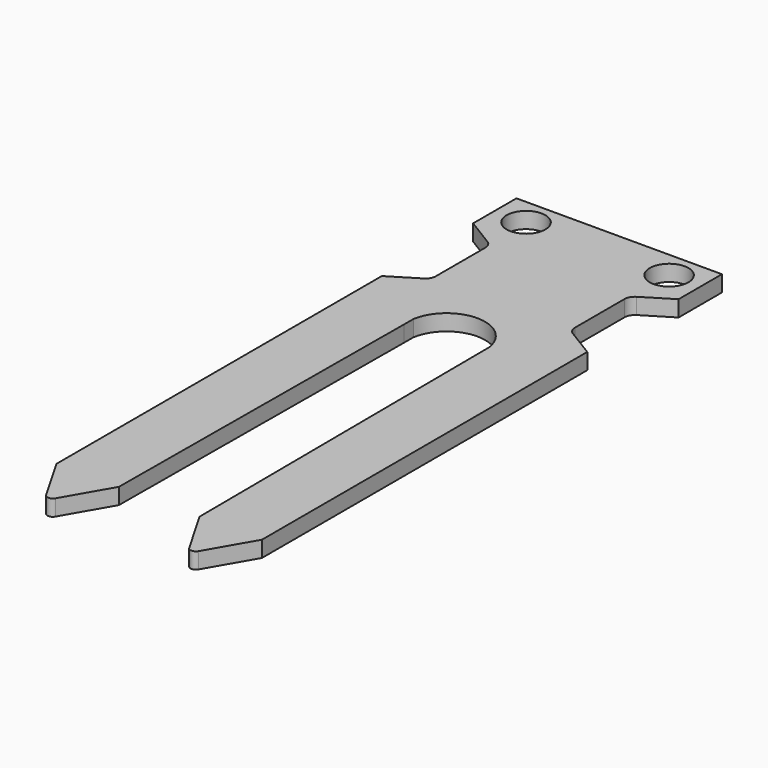
from build123d import *

# Parameters (mm, degrees)
F0_R     = 1.84
F1_DEPTH = 1.53
F2_R     = 1
F3_R     = 0.5


with BuildPart() as f1:
    # F0 (on Top) → F1 (new body)
    with BuildSketch(Plane.XY):
        with BuildLine():
            Line((-9.765, 28.690863), (-9.765, 25.180746))
            Line((-9.765, 25.180746), (-9.765, 23.540863))
            Line((-9.765, 23.540863), (-6.612455, 21.610863))
            Line((-6.612455, 21.610863), (-6.612455, 14.620863))
            Line((-6.612455, 14.620863), (-9.765, 12.690863))
            Line((-9.765, 12.690863), (-9.765, -25.956517))
            Line((-9.765, -25.956517), (-3.835, -25.956517))
            Line((-3.835, -25.956517), (-3.618682, 7.628455))
            ThreePointArc((-3.618682, 7.628455), (-3.659924, 8.200425), (-3.611318, 8.771817))
            ThreePointArc((-3.611318, 8.771817), (0, 11.836852), (3.611318, 8.771817))
            Line((3.611318, 8.771817), (3.835, -25.956517))
            Line((3.835, -25.956517), (9.765, -25.956517))
            Line((9.765, -25.956517), (9.765, 12.690863))
            Line((9.765, 12.690863), (6.612455, 14.620863))
            Line((6.612455, 14.620863), (6.612455, 21.610863))
            Line((6.612455, 21.610863), (9.765, 23.540863))
            Line((9.765, 23.540863), (9.765, 25.180746))
            Line((9.765, 25.180746), (9.765, 28.690863))
            Line((9.765, 28.690863), (-9.765, 28.690863))
        make_face()
        with Locations((-6.8, 26.120863)):
            Circle(F0_R, mode=Mode.SUBTRACT)
        with Locations((6.8, 26.120863)):
            Circle(F0_R, mode=Mode.SUBTRACT)
        Polygon((-3.835, -25.956517), (-9.765, -25.956517), (-6.8, -31.106517), align=None)
        with BuildLine():
            ThreePointArc((-3.611318, 8.771817), (-3.659924, 8.200425), (-3.618682, 7.628455))
            Line((-3.618682, 7.628455), (-3.611318, 8.771817))
        make_face()
        Polygon((6.8, -31.106517), (9.765, -25.956517), (3.835, -25.956517), align=None)
    extrude(amount=F1_DEPTH)

    # F2
    f2_edges = [f1.edges().sort_by_distance(p)[0] for p in [
        (6.612455, 21.610863, 0.765),
        (6.612455, 14.620863, 0.765),
        (-6.612455, 21.610863, 0.765),
        (-6.612455, 14.620863, 0.765),
    ]]
    fillet(f2_edges, radius=F2_R)

    # F3
    f3_edges = [f1.edges().sort_by_distance(p)[0] for p in [
        (-6.8, -31.106517, 0.765),
        (6.8, -31.106517, 0.765),
    ]]
    fillet(f3_edges, radius=F3_R)


solid = f1.part
